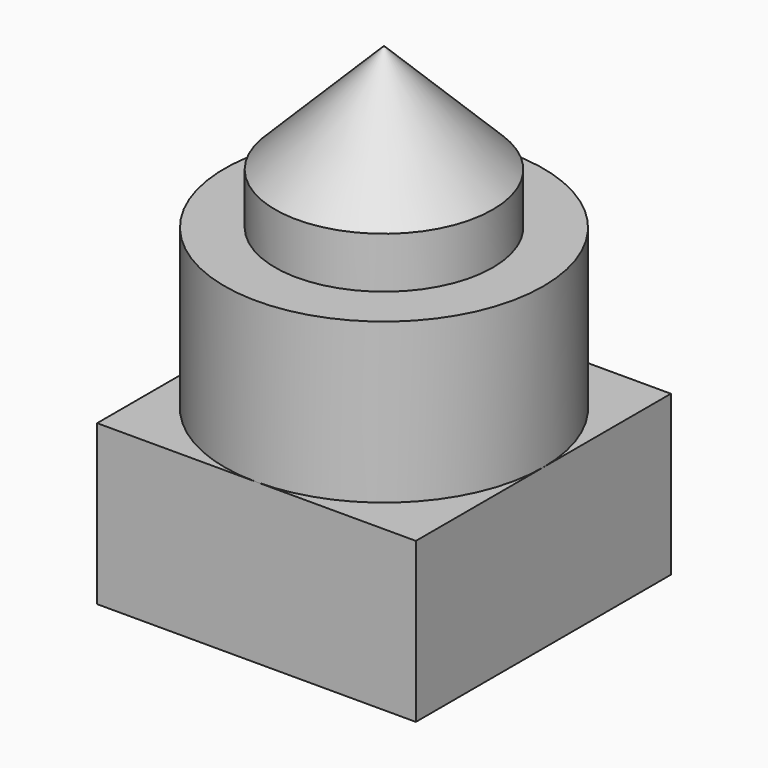
from build123d import *

# Parameters (mm, degrees)
F0_W     = 20
F0_H     = 20
F1_DEPTH = 10
F2_R     = 10
F3_DEPTH = 10
F4_R     = 6.828336
F5_DEPTH = 10
F6_SIZE  = 6.8


with BuildPart() as f1:
    # F0 (on Top) → F1 (new body)
    with BuildSketch(Plane.XY):
        Rectangle(F0_W, F0_H)
    extrude(amount=F1_DEPTH)

    # F2 (on face) → F3 (join)
    with BuildSketch(Plane.XY.offset(10)):
        Circle(F2_R)
    extrude(amount=F3_DEPTH)

    # F4 (on face) → F5 (join)
    with BuildSketch(Plane.XY.offset(20)):
        Circle(F4_R)
    extrude(amount=F5_DEPTH)

    # F6
    f6_edges = [f1.edges().sort_by_distance(p)[0] for p in [
        (-6.828336, 0, 30),
    ]]
    chamfer(f6_edges, length=F6_SIZE)


solid = f1.part
